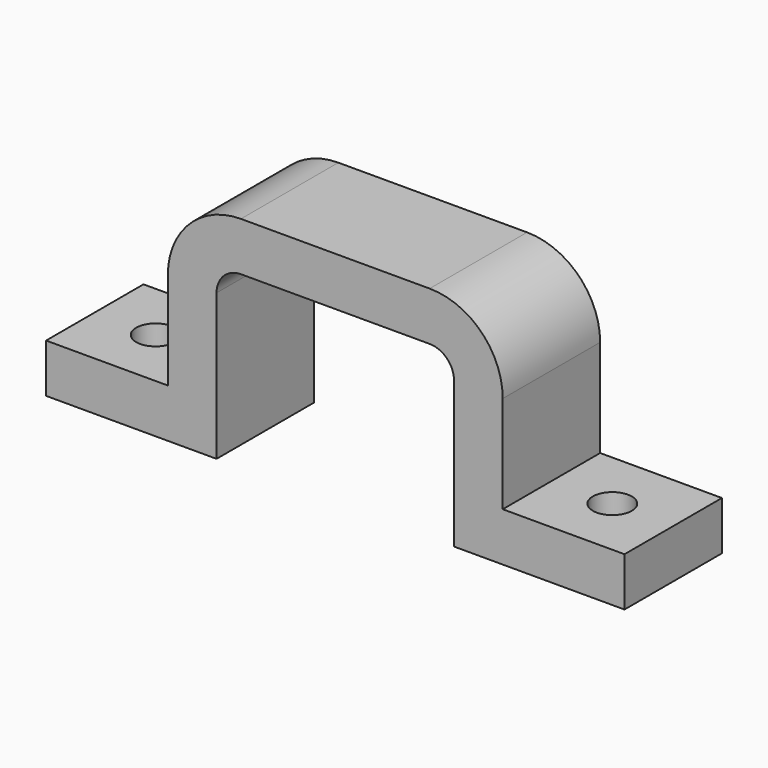
from build123d import *

# Parameters (mm, degrees)
F0_W     = 4
F0_H     = 4
F0_W_2   = 10
F1_DEPTH = 10
F2_R     = 1.6
F3_DEPTH = 4.001


with BuildPart() as f1:
    # F0 (on Front) → F1 (new body)
    with BuildSketch(Plane.XZ):
        with BuildLine():
            Line((-7.75, 7), (7.75, 7))
            ThreePointArc((7.75, 7), (9.164214, 6.414214), (9.75, 5))
            Line((9.75, 5), (9.75, -3))
            Line((9.75, -3), (13.75, -3))
            Line((13.75, -3), (13.75, 5))
            ThreePointArc((13.75, 5), (11.992641, 9.242641), (7.75, 11))
            Line((7.75, 11), (-7.75, 11))
            ThreePointArc((-7.75, 11), (-11.992641, 9.242641), (-13.75, 5))
            Line((-13.75, 5), (-13.75, -3))
            Line((-13.75, -3), (-9.75, -3))
            Line((-9.75, -3), (-9.75, 5))
            ThreePointArc((-9.75, 5), (-9.164214, 6.414214), (-7.75, 7))
        make_face()
        with Locations((11.75, -5)):
            Rectangle(F0_W, F0_H)
        with Locations((18.75, -5)):
            Rectangle(F0_W_2, F0_H)
        with Locations((-11.75, -5)):
            Rectangle(F0_W, F0_H)
        with Locations((-18.75, -5)):
            Rectangle(F0_W_2, F0_H)
    extrude(amount=F1_DEPTH)

    # F2 (on face) → F3 (cut, through all)
    with BuildSketch(Plane.XY.offset(-3)):
        with Locations((18.75, -5)):
            Circle(F2_R)
        with Locations((-18.75, -5)):
            Circle(F2_R)
    extrude(amount=-F3_DEPTH, mode=Mode.SUBTRACT)


solid = f1.part
